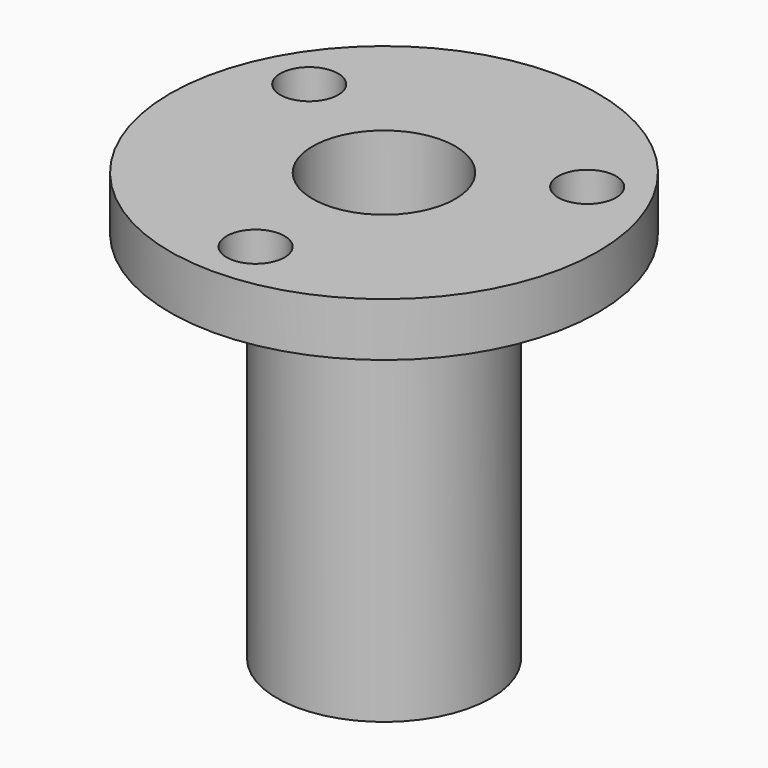
from build123d import *

# Parameters (mm, degrees)
CYLINDER_R        = 9.525
CYLINDER_DEPTH    = 33.3248
SKETCH001_R       = 6.35
POCKET001_DEPTH   = 33.3258
CYLINDER001_R     = 19.05
CYLINDER001_DEPTH = 4.7752
SKETCH_R          = 2.5781
SKETCH_R_2        = 6.35
POCKET_DEPTH      = 4.7762


with BuildPart() as pocket001:
    # Cylinder → Cylinder (new body)
    with BuildSketch(Plane.XY):
        Circle(CYLINDER_R)
    extrude(amount=CYLINDER_DEPTH)

    # Sketch001 → Pocket001 (cut, through all)
    with BuildSketch(Plane(origin=(0, 0, 0), x_dir=(1, 0, 0), z_dir=(0, 0, -1))):
        Circle(SKETCH001_R)
    extrude(amount=-POCKET001_DEPTH, mode=Mode.SUBTRACT)


with BuildPart() as part:
    # Cylinder001 → Cylinder001 (new body)
    with BuildSketch(Plane.XY.offset(33.3248)):
        Circle(CYLINDER001_R)
    extrude(amount=CYLINDER001_DEPTH)

    # Sketch → Pocket (cut, through all)
    with BuildSketch(Plane.XY.offset(38.1)):
        with Locations((-12.373014, 7.144311)):
            Circle(SKETCH_R)
        with Locations((0, -14.2875)):
            Circle(SKETCH_R)
        with Locations((12.373014, 7.144311)):
            Circle(SKETCH_R)
        Circle(SKETCH_R_2)
    extrude(amount=-POCKET_DEPTH, mode=Mode.SUBTRACT)

    # Fusion: union Pocket001
    add(pocket001.part)


solid = part.part
